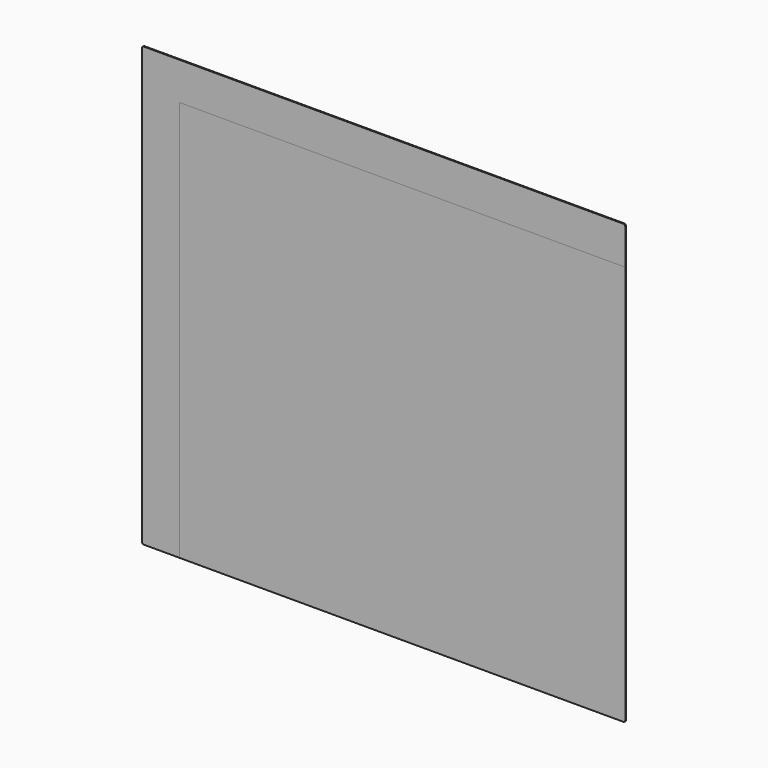
from build123d import *

# Parameters (mm, degrees)
F1_DEPTH = 1
F2_DEPTH = 1


with BuildPart() as f1:
    # F0 (on Front) → F1 (new body)
    with BuildSketch(Plane.XZ):
        with BuildLine():
            Line((250.5, -225.25), (250.5, 188.25))
            Line((250.5, 188.25), (-211.5, 188.25))
            Line((-211.5, 188.25), (-211.5, -227.25))
            Line((-211.5, -227.25), (248.5, -227.25))
            ThreePointArc((248.5, -227.25), (249.914214, -226.664214), (250.5, -225.25))
        make_face()
    extrude(amount=F1_DEPTH)


with BuildPart() as f2:
    # F0 (on Front) → F2 (new body)
    with BuildSketch(Plane.XZ):
        with BuildLine():
            ThreePointArc((250.5, 225.25), (249.914214, 226.664214), (248.5, 227.25))
            Line((248.5, 227.25), (-248.5, 227.25))
            ThreePointArc((-248.5, 227.25), (-249.914214, 226.664214), (-250.5, 225.25))
            Line((-250.5, 225.25), (-250.5, -225.25))
            ThreePointArc((-250.5, -225.25), (-249.914214, -226.664214), (-248.5, -227.25))
            Line((-248.5, -227.25), (-211.5, -227.25))
            Line((-211.5, -227.25), (-211.5, 188.25))
            Line((-211.5, 188.25), (250.5, 188.25))
            Line((250.5, 188.25), (250.5, 225.25))
        make_face()
    extrude(amount=F2_DEPTH)


solid = Compound([f1.part, f2.part])
